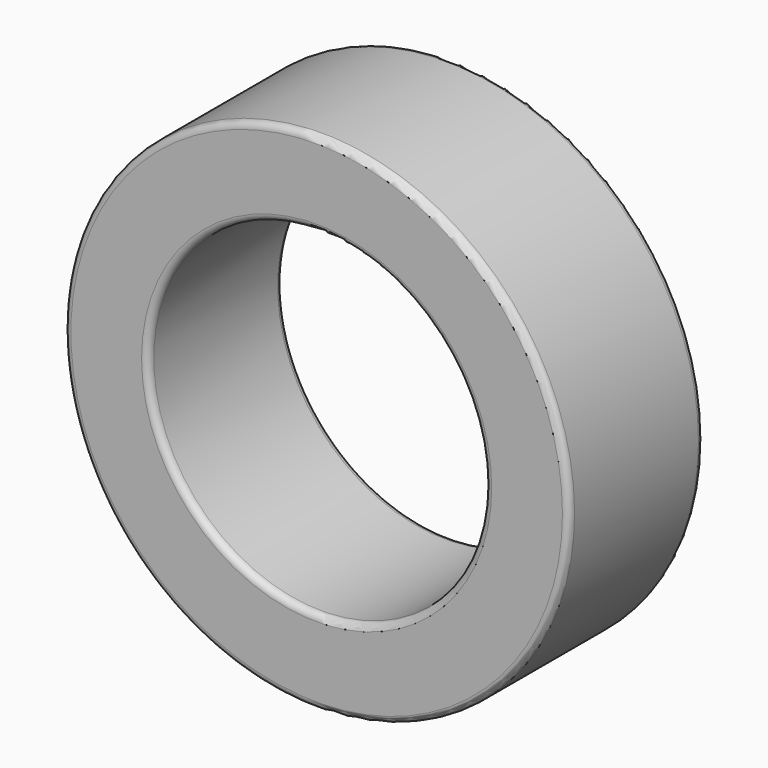
from build123d import *

# Parameters (mm, degrees)
F0_R     = 9.525
F0_R_2   = 6.35
F1_DEPTH = 3.175
F2_R     = 0.254


with BuildPart() as f1:
    # F0 (on Front) → F1 (new body, symmetric)
    with BuildSketch(Plane.XZ):
        Circle(F0_R)
        Circle(F0_R_2, mode=Mode.SUBTRACT)
    extrude(amount=F1_DEPTH, both=True)

    # F2
    f2_edges = [f1.edges().sort_by_distance(p)[0] for p in [
        (-9.525, 3.175, 0),
        (-9.525, -3.175, 0),
        (-6.35, 3.175, 0),
        (-6.35, -3.175, 0),
    ]]
    fillet(f2_edges, radius=F2_R)


solid = f1.part
